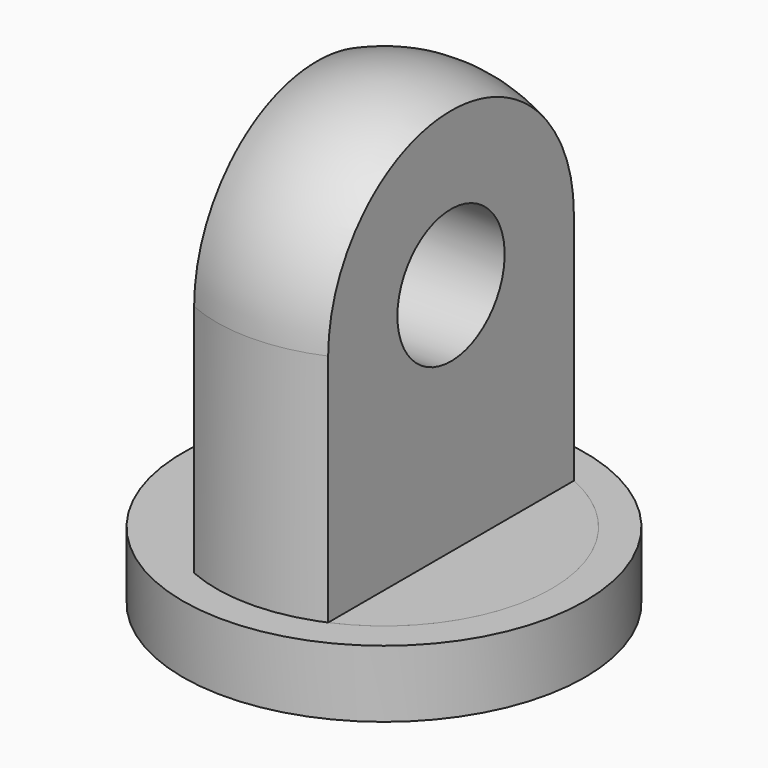
from build123d import *

# Parameters (mm, degrees)
F0_R     = 3
F1_DEPTH = 1
F2_R     = 2.5
F3_DEPTH = 6
F4_R     = 2.5
F5_W     = 2.035479
F5_H     = 6.262277
F5_W_2   = 2.073893
F5_H_2   = 6.24879
F6_DEPTH = 12.5
F7_R     = 1
F8_DEPTH = 25


with BuildPart() as f1:
    # F0 (on Top) → F1 (new body)
    with BuildSketch(Plane.XY):
        Circle(F0_R)
    extrude(amount=F1_DEPTH)

    # F2 (on face) → F3 (join)
    with BuildSketch(Plane.XY.offset(1)):
        Circle(F2_R)
    extrude(amount=F3_DEPTH)

    # F4
    f4_edges = [f1.edges().sort_by_distance(p)[0] for p in [
        (-2.5, 0, 7),
    ]]
    fillet(f4_edges, radius=F4_R)

    # F5 (on Front) → F6 (cut, symmetric)
    with BuildSketch(Plane.XZ):
        with Locations((2.01774, 4.131139)):
            Rectangle(F5_W, F5_H)
        with Locations((-2.036946, 4.124395)):
            Rectangle(F5_W_2, F5_H_2)
    extrude(amount=F6_DEPTH, both=True, mode=Mode.SUBTRACT)

    # F7 (on face) → F8 (cut)
    with BuildSketch(Plane(origin=(-1, 0, 0), x_dir=(0, -1, 0), z_dir=(-1, 0, 0))):
        with Locations((0, 4.5)):
            Circle(F7_R)
    extrude(amount=-F8_DEPTH, mode=Mode.SUBTRACT)


solid = f1.part
